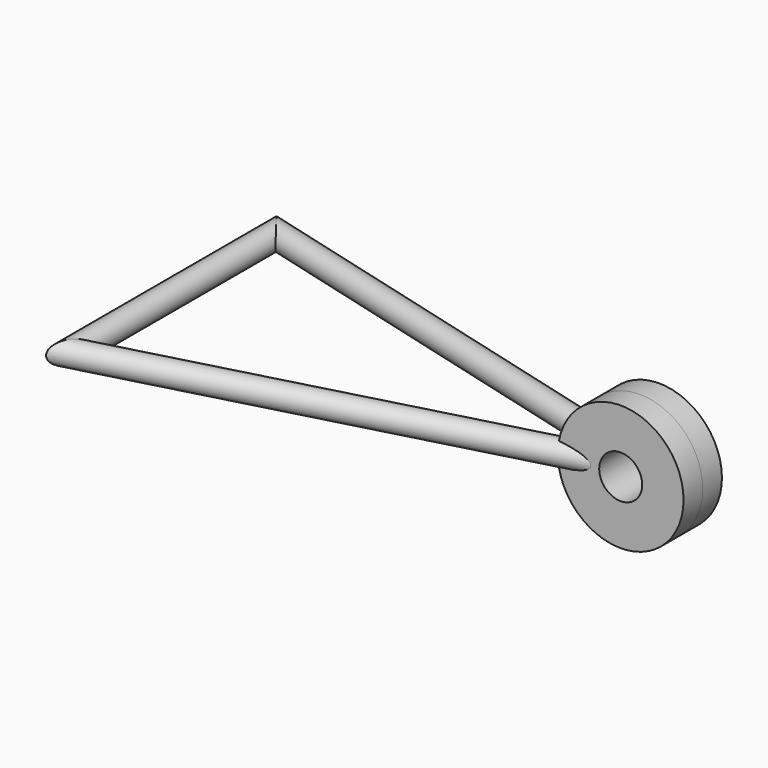
from build123d import *

# Parameters (mm, degrees)
F1_R          = 6.35
F3_R          = 33.2925149607
F4_DEPTH      = 12.7
F4_DEPTH_BACK = 12.7
F5_R          = 11.3838907511
F6_DEPTH      = 25.4


with BuildPart() as f2:
    # F2: sweep along a path in F0
    with BuildLine(Plane.XY) as f2_path:
        Line((0, 68.0590948775), (0, -68.0590948775))
        Line((0, -68.0590948775), (254, 0))
        Line((254, 0), (0, 68.0590948775))
    # F1 (on Front) → F2 (sweep)
    with BuildSketch(Plane.XZ):
        Circle(F1_R)
    sweep(path=f2_path.line, transition=Transition.RIGHT)

    # F3 (on Front) → F4 (join, two sides)
    with BuildSketch(Plane.XZ) as f4_sk:
        with Locations((247.0585107803, 0)):
            Circle(F3_R)
    extrude(amount=F4_DEPTH)
    extrude(f4_sk.sketch, amount=-F4_DEPTH_BACK)

    # F5 (on face) → F6 (cut)
    with BuildSketch(Plane(origin=(0, 12.7, 0), x_dir=(-1, 0, 0), z_dir=(0, 1, 0))):
        with Locations((-247.0585107803, 0)):
            Circle(F5_R)
    extrude(amount=-F6_DEPTH, mode=Mode.SUBTRACT)


solid = f2.part
